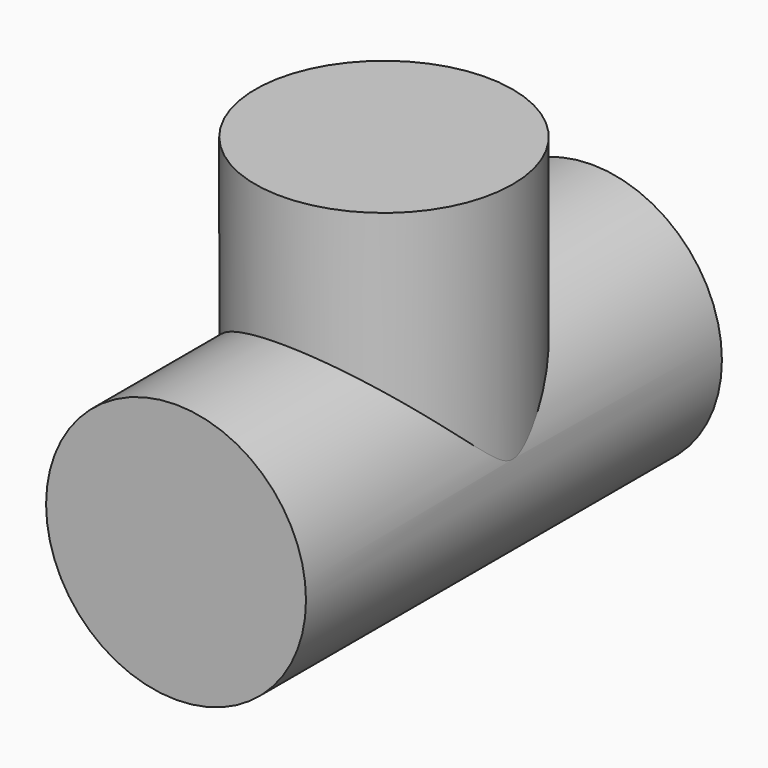
from build123d import *

# Parameters (mm, degrees)
F0_R      = 38.093898
F1_DEPTH  = 76.2
F1_FACE_R = 38.093898
F2_DEPTH  = 76.2
F3_R      = 37.724218
F4_DEPTH  = 76.2


with BuildPart() as f1:
    # F0 (on Front) → F1 (new body)
    with BuildSketch(Plane.XZ):
        Circle(F0_R)
    extrude(amount=F1_DEPTH)

    # F0 (on Front) + F1_face (on face) → F2 (join)
    with BuildSketch(Plane.XZ):
        Circle(F0_R)
    with BuildSketch(Plane(origin=(0, 0, 0), x_dir=(1, 0, 0), z_dir=(0, 1, 0))):
        Circle(F1_FACE_R)
    extrude(amount=-F2_DEPTH)

    # F3 (on Top) → F4 (join)
    with BuildSketch(Plane.XY):
        Circle(F3_R)
    extrude(amount=F4_DEPTH)


solid = f1.part
